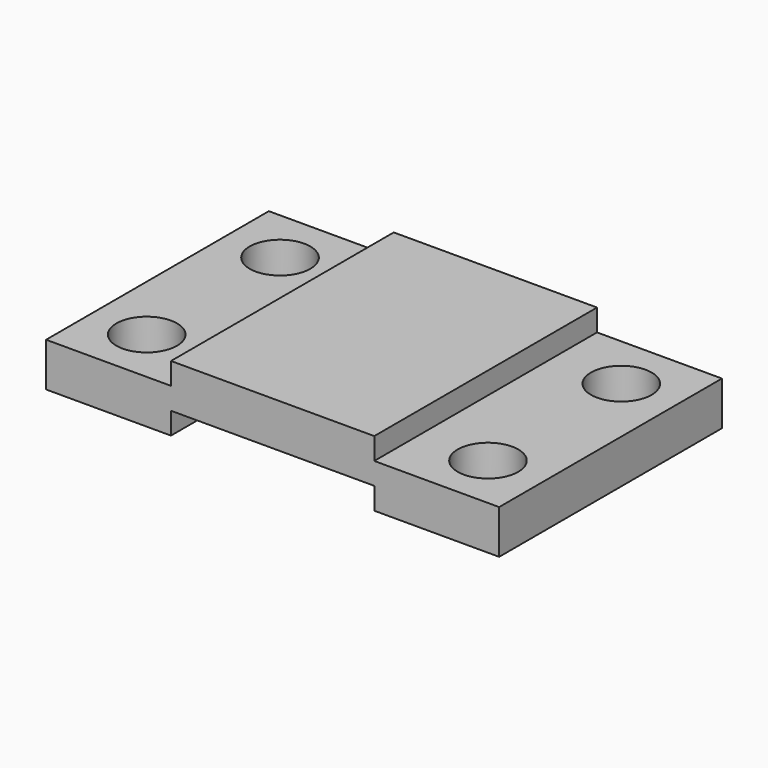
from build123d import *

# Parameters (mm, degrees)
F0_W     = 134.55
F0_H     = 82.69
F1_DEPTH = 13.01
F2_W     = 60.370001
F2_H     = 6.50506
F3_DEPTH = 82.691
F4_W     = 60.370001
F4_H     = 82.69
F5_DEPTH = 6.50494
F6_R     = 8.999995
F6_R_2   = 9.0043
F7_DEPTH = 13.011


with BuildPart() as f1:
    # F0 (on Top) → F1 (new body)
    with BuildSketch(Plane.XY):
        with Locations((-23.54345, -1.874108)):
            Rectangle(F0_W, F0_H)
    extrude(amount=F1_DEPTH)

    # F2 (on face) → F3 (cut, through all)
    with BuildSketch(Plane.XZ.offset(43.219108)):
        with Locations((-23.54345, 3.25253)):
            Rectangle(F2_W, F2_H)
    extrude(amount=-F3_DEPTH, mode=Mode.SUBTRACT)

    # F4 (on face) → F5 (join)
    with BuildSketch(Plane.XY.offset(13.01)):
        with Locations((-23.54345, -1.874108)):
            Rectangle(F4_W, F4_H)
    extrude(amount=F5_DEPTH)

    # F6 (on face) → F7 (cut, through all)
    with BuildSketch(Plane.XY.offset(13.01)):
        with Locations((27.131545, 22.870887)):
            Circle(F6_R)
        with Locations((27.127239, -26.614798)):
            Circle(F6_R_2)
        with Locations((-74.21414, 22.866582)):
            Circle(F6_R_2)
        with Locations((-74.21414, -26.614798)):
            Circle(F6_R_2)
    extrude(amount=-F7_DEPTH, mode=Mode.SUBTRACT)


solid = f1.part
